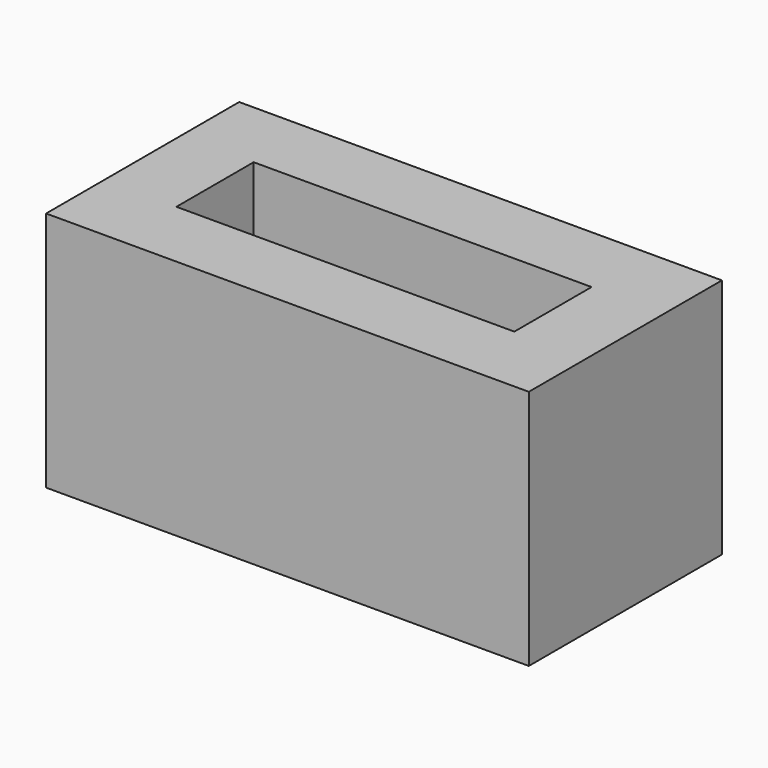
from build123d import *

# Parameters (mm, degrees)
F0_W     = 20
F0_H     = 10
F1_DEPTH = 10
F2_W     = 14
F2_H     = 4
F3_DEPTH = 4
F5_DEPTH = 2


with BuildPart() as f1:
    # F0 (on Top) → F1 (new body)
    with BuildSketch(Plane.XY):
        Rectangle(F0_W, F0_H)
    extrude(amount=F1_DEPTH)

    # F2 (on face) → F3 (cut)
    with BuildSketch(Plane.XY.offset(10)):
        Rectangle(F2_W, F2_H)
    extrude(amount=-F3_DEPTH, mode=Mode.SUBTRACT)

    # F4 (on face) → F5 (join)
    with BuildSketch(Plane.XY.offset(6)):
        with BuildLine():
            Line((-1.5, -2), (1.5, -2))
            ThreePointArc((1.5, -2), (0, -0.4), (-1.5, -2))
        make_face()
    extrude(amount=F5_DEPTH)


solid = f1.part
